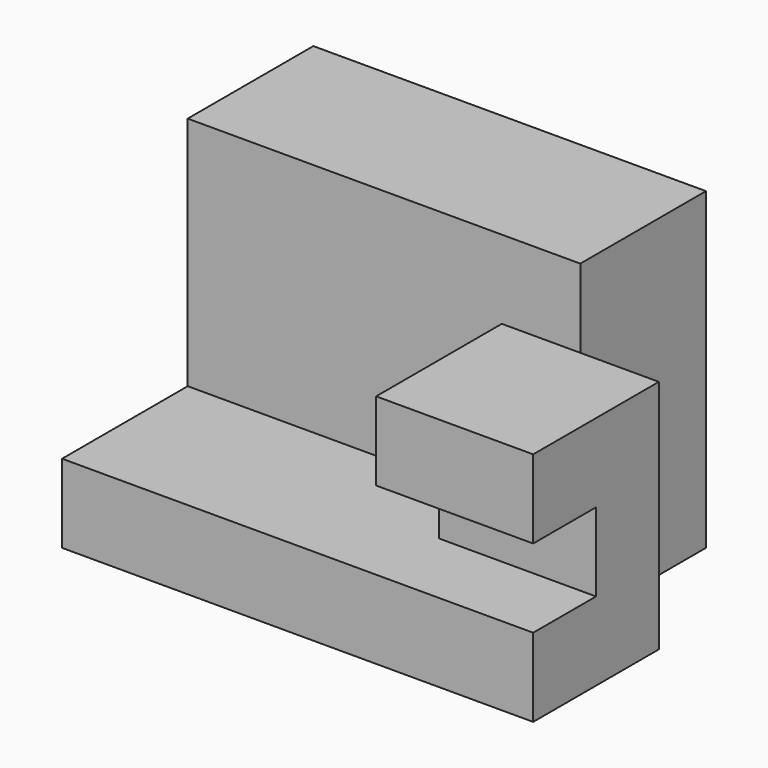
from build123d import *

# Parameters (mm, degrees)
PAD_DEPTH    = 10
SKETCH001_W  = 50
SKETCH001_H  = 20
PAD001_DEPTH = 30
PAD002_DEPTH = 20


with BuildPart() as part:
    # Sketch → Pad (new body)
    with BuildSketch(Plane.XY):
        Polygon((-30, 20), (-30, -20), (30, -20), (30, 0), (20, 0), (20, 20), align=None)
    extrude(amount=PAD_DEPTH)

    # Sketch001 (on Face8 of Pad) → Pad001 (join)
    with BuildSketch(Plane.XY.offset(10)):
        with Locations((-5, 10)):
            Rectangle(SKETCH001_W, SKETCH001_H)
    extrude(amount=PAD001_DEPTH)

    # Sketch002 (on Face4 of Pad001) → Pad002 (join)
    with BuildSketch(Plane.YZ.offset(30)):
        Polygon((0, 10), (-10, 10), (-10, 20), (-20, 20), (-20, 30), (0, 30), align=None)
    extrude(amount=-PAD002_DEPTH)


solid = part.part
